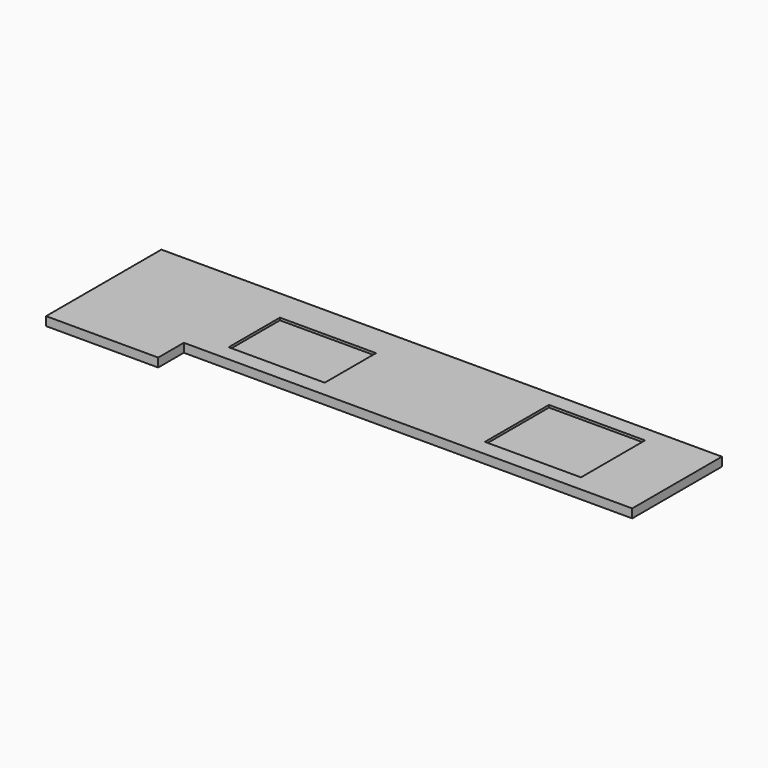
from build123d import *

# Parameters (mm, degrees)
F1_DEPTH = 40
F2_W     = 600
F2_H     = 400
F2_H_2   = 500
F3_DEPTH = 15


with BuildPart() as f1:
    # F0 (on Top) → F1 (new body)
    with BuildSketch(Plane.XY):
        Polygon((2055.7201809571, 348.6190134659), (-744.2798190429, 348.6190134659), (-1444.2798190429, 348.6190134659), (-1444.2798190429, -551.3809865341), (-744.2798190429, -551.3809865341), (-744.2798190429, -351.3809865341), (2055.7201809571, -351.3809865341), align=None)
    extrude(amount=F1_DEPTH)

    # F2 (on face) → F3 (join)
    with BuildSketch(Plane.XY.offset(40)):
        Polygon((2055.7201809571, -351.3809865341), (2055.7201809571, 348.6190134659), (-1444.2798190429, 348.6190134659), (-1444.2798190429, -551.3809865341), (-744.2798190429, -551.3809865341), (-744.2798190429, -351.3809865341), align=None)
        with Locations((-244.2798190429, -51.3809865341)):
            Rectangle(F2_W, F2_H, mode=Mode.SUBTRACT)
        with Locations((1355.7201809571, -1.3809865341)):
            Rectangle(F2_W, F2_H_2, mode=Mode.SUBTRACT)
    extrude(amount=F3_DEPTH)


solid = f1.part
